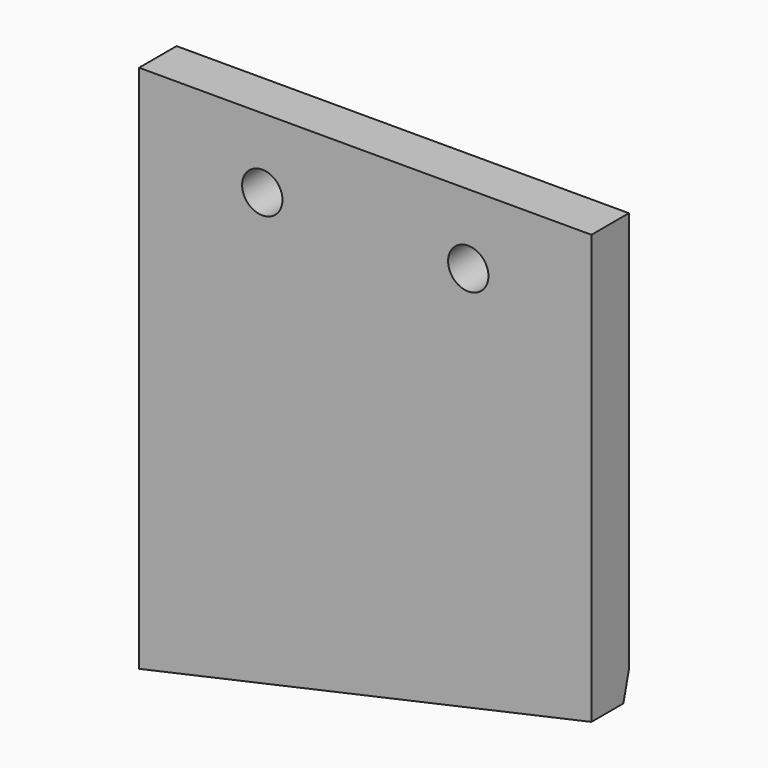
from build123d import *

# Parameters (mm, degrees)
F1_DEPTH = 6.35
F2_R     = 2.73685
F3_DEPTH = 6.35
F5_DEPTH = 63.5


with BuildPart() as f1:
    # F0 (on Front) → F1 (new body)
    with BuildSketch(Plane.XZ):
        Polygon((61.3537, 0), (0, 0), (0, -71.7804), (61.3537, -58.166), align=None)
    extrude(amount=F1_DEPTH)

    # F2 (on face) → F3 (cut)
    with BuildSketch(Plane.XZ.offset(6.35)):
        with Locations((44.64685, -9.46785)):
            Circle(F2_R)
        with Locations((16.70685, -9.46785)):
            Circle(F2_R)
    extrude(amount=-F3_DEPTH, mode=Mode.SUBTRACT)

    # F4 (on face) → F5 (cut)
    with BuildSketch(Plane(origin=(0, 0, 0), x_dir=(0, -1, 0), z_dir=(-1, 0, 0))):
        Polygon((4.45231, -71.7804), (0, -54.5084), (0, -71.7804), align=None)
    extrude(amount=-F5_DEPTH, mode=Mode.SUBTRACT)


solid = f1.part
